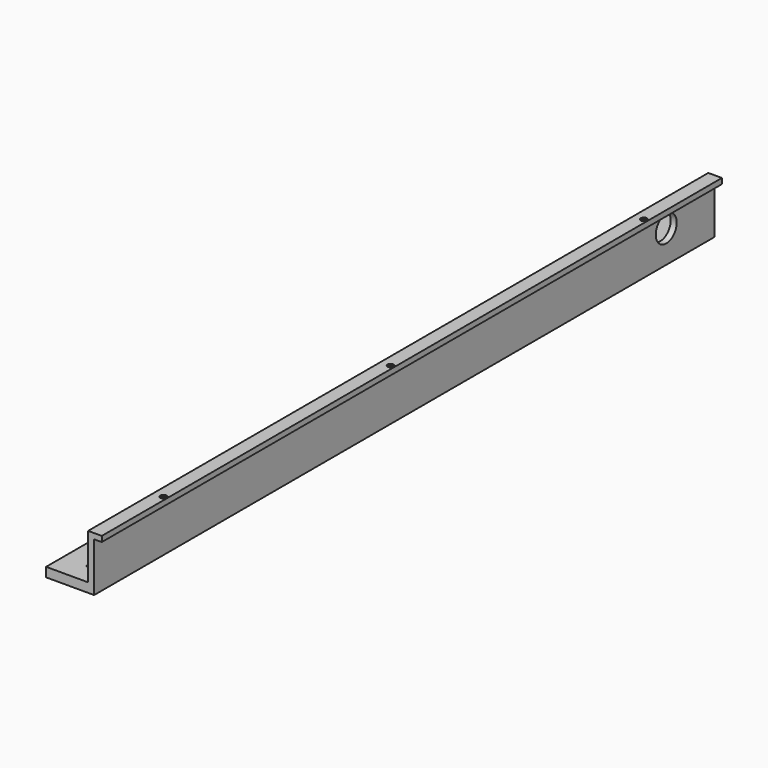
from build123d import *

# Parameters (mm, degrees)
PAD_DEPTH           = 710
HOLE_D              = 3.4
HOLE_DEPTH          = 25
HOLE_CBORE_D        = 5.8
HOLE_CBORE_DEPTH    = 1.5
HOLE_TIPS_R         = 1.7
HOLE001_D           = 3.4
HOLE001_DEPTH       = 25
HOLE001_CBORE_D     = 5.5
HOLE001_CBORE_DEPTH = 1.5
HOLE001_TIPS_R      = 1.7
SKETCH004_R         = 7
POCKET_DEPTH        = 3
SKETCH005_R         = 1.7
HOLE002_DEPTH       = 25
HOLE002_TIPS_R      = 1.7
POCKET001_DEPTH     = 47.001
SKETCH007_R         = 1.7
HOLE003_DEPTH       = 25
HOLE003_TIPS_R      = 1.7
SKETCH009_R         = 12
POCKET002_DEPTH     = 12.501
SKETCH011_R         = 1.7
HOLE004_DEPTH       = 50.001
SKETCH010_R         = 1.7
HOLE005_DEPTH       = 50.001
SKETCH012_R         = 7
POCKET003_DEPTH     = 3
POCKET004_DEPTH     = 47.001
SKETCH014_R         = 1.7
HOLE006_DEPTH       = 25
HOLE006_TIPS_R      = 1.7


with BuildPart() as part:
    # Sketch → Pad (new body)
    with BuildSketch(Plane.XZ):
        Polygon((0, 0), (-44, 0), (-44, 8.5), (-5.5, 8.5), (-5.5, 50), (7, 50), (7, 45), (0, 45), align=None)
    extrude(amount=PAD_DEPTH)

    # Hole
    with Locations(Plane(origin=(0, 0, 50), x_dir=(-1, 0, 0), z_dir=(0, 0, 1))):
        with Locations((-3.5, 85), (-3.5, 635)):
            CounterBoreHole(HOLE_D / 2, HOLE_CBORE_D / 2, HOLE_CBORE_DEPTH, depth=HOLE_DEPTH)

    # Hole tips → Hole tip 1 section 0
    with BuildSketch(Plane(origin=(0, 0, 25), x_dir=(-1, 0, 0), z_dir=(0, 0, 1)), mode=Mode.PRIVATE) as hole_tip_1_s0:
        with Locations((-3.5, 85)):
            Circle(HOLE_TIPS_R)
    loft([hole_tip_1_s0.sketch, Vertex(3.5, -85, 23.978537)], mode=Mode.SUBTRACT)

    # Hole tips → Hole tip 2 section 0
    with BuildSketch(Plane(origin=(0, 0, 25), x_dir=(-1, 0, 0), z_dir=(0, 0, 1)), mode=Mode.PRIVATE) as hole_tip_2_s0:
        with Locations((-3.5, 635)):
            Circle(HOLE_TIPS_R)
    loft([hole_tip_2_s0.sketch, Vertex(3.5, -635, 23.978537)], mode=Mode.SUBTRACT)

    # Hole001
    with Locations(Plane(origin=(0, 0, 50), x_dir=(-1, 0, 0), z_dir=(0, 0, 1))):
        with Locations((-3.5, 375)):
            CounterBoreHole(HOLE001_D / 2, HOLE001_CBORE_D / 2, HOLE001_CBORE_DEPTH, depth=HOLE001_DEPTH)

    # Hole001 tips → Hole001 tip 1 section 0
    with BuildSketch(Plane(origin=(0, 0, 25), x_dir=(-1, 0, 0), z_dir=(0, 0, 1)), mode=Mode.PRIVATE) as hole001_tip_1_s0:
        with Locations((-3.5, 375)):
            Circle(HOLE001_TIPS_R)
    loft([hole001_tip_1_s0.sketch, Vertex(3.5, -375, 23.978537)], mode=Mode.SUBTRACT)

    # Sketch004 → Pocket (cut)
    with BuildSketch(Plane(origin=(0, 0, 0), x_dir=(1, 0, 0), z_dir=(0, 0, -1))):
        with Locations((-20.75, 55)):
            Circle(SKETCH004_R)
    extrude(amount=-POCKET_DEPTH, mode=Mode.SUBTRACT)

    # Sketch005 (on Face1 of Pocket) → Hole002 (cut)
    with BuildSketch(Plane(origin=(0, 0, 0), x_dir=(1, 0, 0), z_dir=(0, 0, -1))):
        with Locations((-31.5, 55)):
            Circle(SKETCH005_R)
        with Locations((-9.5, 55)):
            Circle(SKETCH005_R)
    extrude(amount=-HOLE002_DEPTH, mode=Mode.SUBTRACT)

    # Hole002 tips → Hole002 tip 1 section 0
    with BuildSketch(Plane(origin=(0, 0, 25), x_dir=(1, 0, 0), z_dir=(0, 0, -1)), mode=Mode.PRIVATE) as hole002_tip_1_s0:
        with Locations((-31.5, 55)):
            Circle(HOLE002_TIPS_R)
    loft([hole002_tip_1_s0.sketch, Vertex(-31.5, -55, 26.021463)], mode=Mode.SUBTRACT)

    # Hole002 tips → Hole002 tip 2 section 0
    with BuildSketch(Plane(origin=(0, 0, 25), x_dir=(1, 0, 0), z_dir=(0, 0, -1)), mode=Mode.PRIVATE) as hole002_tip_2_s0:
        with Locations((-9.5, 55)):
            Circle(HOLE002_TIPS_R)
    loft([hole002_tip_2_s0.sketch, Vertex(-9.5, -55, 26.021463)], mode=Mode.SUBTRACT)

    # Sketch006 → Pocket001 (cut, through all)
    with BuildSketch(Plane(origin=(0, 0, 3), x_dir=(1, 0, 0), z_dir=(0, 0, -1))):
        with BuildLine():
            ThreePointArc((-23.25, 56.2), (-24.45, 55), (-23.25, 53.8))
            Line((-23.25, 53.8), (-18.25, 53.8))
            ThreePointArc((-18.25, 53.8), (-17.05, 55), (-18.25, 56.2))
            Line((-18.25, 56.2), (-23.25, 56.2))
        make_face()
    extrude(amount=-POCKET001_DEPTH, mode=Mode.SUBTRACT)

    # Sketch007 → Hole003 (cut)
    with BuildSketch(Plane(origin=(0, 0, 3), x_dir=(1, 0, 0), z_dir=(0, 0, -1))):
        with Locations((-23.25, 55)):
            Circle(SKETCH007_R)
        with Locations((-18.25, 55)):
            Circle(SKETCH007_R)
    extrude(amount=-HOLE003_DEPTH, mode=Mode.SUBTRACT)

    # Hole003 tips → Hole003 tip 1 section 0
    with BuildSketch(Plane(origin=(0, 0, 28), x_dir=(1, 0, 0), z_dir=(0, 0, -1)), mode=Mode.PRIVATE) as hole003_tip_1_s0:
        with Locations((-23.25, 55)):
            Circle(HOLE003_TIPS_R)
    loft([hole003_tip_1_s0.sketch, Vertex(-23.25, -55, 29.021463)], mode=Mode.SUBTRACT)

    # Hole003 tips → Hole003 tip 2 section 0
    with BuildSketch(Plane(origin=(0, 0, 28), x_dir=(1, 0, 0), z_dir=(0, 0, -1)), mode=Mode.PRIVATE) as hole003_tip_2_s0:
        with Locations((-18.25, 55)):
            Circle(HOLE003_TIPS_R)
    loft([hole003_tip_2_s0.sketch, Vertex(-18.25, -55, 29.021463)], mode=Mode.SUBTRACT)

    # Sketch009 → Pocket002 (cut, through all)
    with BuildSketch(Plane(origin=(-5.5, 0, 0), x_dir=(0, 0, -1), z_dir=(-1, 0, 0))):
        with Locations((-29.25, 55)):
            Circle(SKETCH009_R)
    extrude(amount=-POCKET002_DEPTH, mode=Mode.SUBTRACT)

    # Sketch011 → Hole004 (cut, through all)
    with BuildSketch(Plane(origin=(0, 0, 0), x_dir=(1, 0, 0), z_dir=(0, 0, -1))):
        with Locations((-20.75, 690)):
            Circle(SKETCH011_R)
        with Locations((-20.75, 680)):
            Circle(SKETCH011_R)
    extrude(amount=-HOLE004_DEPTH, mode=Mode.SUBTRACT)

    # Sketch010 → Hole005 (cut, through all)
    with BuildSketch(Plane(origin=(0, 0, 0), x_dir=(1, 0, 0), z_dir=(0, 0, -1))):
        with Locations((-31.125, 575)):
            Circle(SKETCH010_R)
        with Locations((-10.375, 575)):
            Circle(SKETCH010_R)
    extrude(amount=-HOLE005_DEPTH, mode=Mode.SUBTRACT)

    # Sketch012 → Pocket003 (cut)
    with BuildSketch(Plane(origin=(0, 0, 0), x_dir=(1, 0, 0), z_dir=(0, 0, -1))):
        with Locations((-20.75, 575)):
            Circle(SKETCH012_R)
    extrude(amount=-POCKET003_DEPTH, mode=Mode.SUBTRACT)

    # Sketch013 → Pocket004 (cut, through all)
    with BuildSketch(Plane(origin=(0, 0, 3), x_dir=(1, 0, 0), z_dir=(0, 0, -1))):
        with BuildLine():
            ThreePointArc((-23.25, 576.2), (-24.45, 575), (-23.25, 573.8))
            Line((-23.25, 573.8), (-18.25, 573.8))
            ThreePointArc((-18.25, 573.8), (-17.05, 575), (-18.25, 576.2))
            Line((-18.25, 576.2), (-23.25, 576.2))
        make_face()
    extrude(amount=-POCKET004_DEPTH, mode=Mode.SUBTRACT)

    # Sketch014 → Hole006 (cut)
    with BuildSketch(Plane(origin=(0, 0, 3), x_dir=(1, 0, 0), z_dir=(0, 0, -1))):
        with Locations((-18.25, 575)):
            Circle(SKETCH014_R)
        with Locations((-23.25, 575)):
            Circle(SKETCH014_R)
    extrude(amount=-HOLE006_DEPTH, mode=Mode.SUBTRACT)

    # Hole006 tips → Hole006 tip 1 section 0
    with BuildSketch(Plane(origin=(0, 0, 28), x_dir=(1, 0, 0), z_dir=(0, 0, -1)), mode=Mode.PRIVATE) as hole006_tip_1_s0:
        with Locations((-18.25, 575)):
            Circle(HOLE006_TIPS_R)
    loft([hole006_tip_1_s0.sketch, Vertex(-18.25, -575, 29.021463)], mode=Mode.SUBTRACT)

    # Hole006 tips → Hole006 tip 2 section 0
    with BuildSketch(Plane(origin=(0, 0, 28), x_dir=(1, 0, 0), z_dir=(0, 0, -1)), mode=Mode.PRIVATE) as hole006_tip_2_s0:
        with Locations((-23.25, 575)):
            Circle(HOLE006_TIPS_R)
    loft([hole006_tip_2_s0.sketch, Vertex(-23.25, -575, 29.021463)], mode=Mode.SUBTRACT)


solid = part.part
